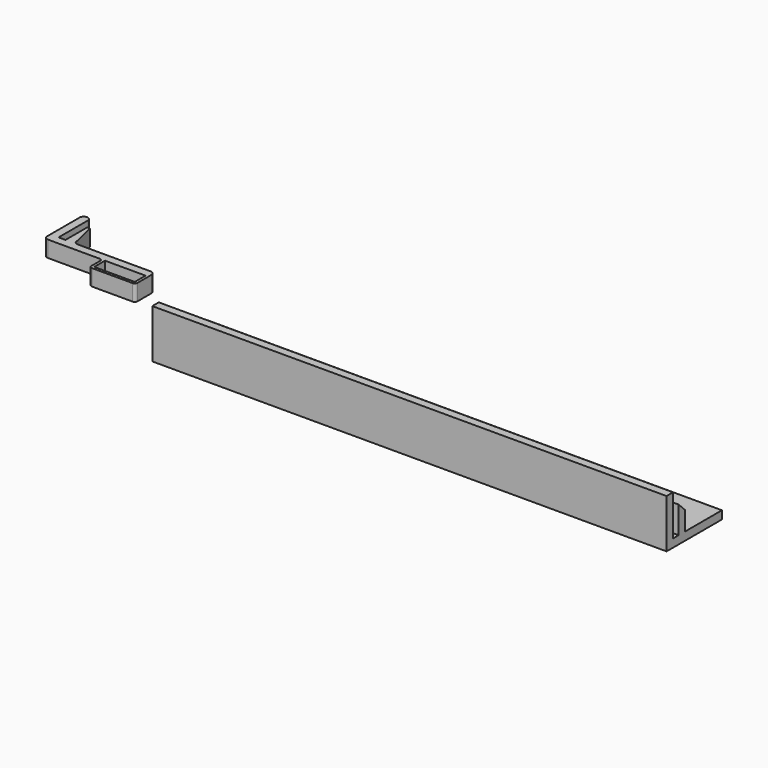
from build123d import *

# Parameters (mm, degrees)
F1_DEPTH = 190
F2_W     = 20
F2_H     = 2
F3_DEPTH = 25
F5_DEPTH = 6
F6_SIZE2 = 8
F6_SIZE  = 2
F7_R     = 1


with BuildPart() as f1:
    # F0 (on Right) → F1 (new body)
    with BuildSketch(Plane.YZ):
        Polygon((4.144212, 10), (1.144212, 13), (1.144212, 3), (-1.405788, 3), (-1.405788, 18), (-4.405788, 18), (-4.405788, 0), (-2.420145, 0), (21.144212, 0), (21.144212, 3), (4.144212, 3), align=None)
    extrude(amount=F1_DEPTH)

    # F2 (on face) → F3 (cut)
    with BuildSketch(Plane(origin=(0, 0, 0), x_dir=(1, 0, 0), z_dir=(0, 0, -1))):
        with Locations((174.6, -5.144212)):
            Rectangle(F2_W, F2_H)
        with Locations((148, -5.144212)):
            Rectangle(F2_W, F2_H)
        with Locations((121.4, -5.144212)):
            Rectangle(F2_W, F2_H)
        with Locations((94.8, -5.144212)):
            Rectangle(F2_W, F2_H)
        with Locations((68.2, -5.144212)):
            Rectangle(F2_W, F2_H)
        with Locations((41.6, -5.144212)):
            Rectangle(F2_W, F2_H)
        with Locations((15, -5.144212)):
            Rectangle(F2_W, F2_H)
    extrude(amount=-F3_DEPTH, mode=Mode.SUBTRACT)


with BuildPart() as f5:
    # F4 (on Top) → F5 (new body)
    with BuildSketch(Plane.XY):
        with BuildLine():
            Line((-56.777601, 40.232927), (-59.777601, 40.232927))
            Line((-59.777601, 40.232927), (-59.777601, 30.232927))
            Line((-59.777601, 30.232927), (-62.327601, 30.232927))
            Line((-62.327601, 30.232927), (-62.327601, 43.732927))
            ThreePointArc((-62.327601, 43.732927), (-62.766941, 44.793587), (-63.827601, 45.232927))
            ThreePointArc((-63.827601, 45.232927), (-64.888261, 44.793587), (-65.327601, 43.732927))
            Line((-65.327601, 43.732927), (-65.327601, 28.732927))
            ThreePointArc((-65.327601, 28.732927), (-64.888261, 27.672267), (-63.827601, 27.232927))
            Line((-63.827601, 27.232927), (-50.341958, 27.232927))
            Line((-50.341958, 27.232927), (-43.777601, 27.232927))
            Line((-43.777601, 27.232927), (-42.777601, 27.232927))
            Line((-42.777601, 27.232927), (-27.777601, 27.232927))
            Line((-27.777601, 27.232927), (-26.777601, 27.232927))
            Line((-26.777601, 27.232927), (-26.777601, 28.732927))
            ThreePointArc((-26.777601, 28.732927), (-27.216941, 29.793587), (-28.277601, 30.232927))
            Line((-28.277601, 30.232927), (-55.277601, 30.232927))
            ThreePointArc((-55.277601, 30.232927), (-56.338261, 30.672267), (-56.777601, 31.732927))
            Line((-56.777601, 31.732927), (-56.777601, 40.232927))
        make_face()
        Polygon((-26.777601, 21.232927), (-26.777601, 27.232927), (-27.777601, 27.232927), (-27.777601, 22.232927), (-42.777601, 22.232927), (-42.777601, 27.232927), (-43.777601, 27.232927), (-43.777601, 21.232927), align=None)
    extrude(amount=F5_DEPTH)

    # F6
    f6_edges = [f5.edges().sort_by_distance(p)[0] for p in [
        (-56.777601, 40.232927, 3),
    ]]
    chamfer(f6_edges, length=F6_SIZE, length2=F6_SIZE2)

    # F7
    f7_edges = [f5.edges().sort_by_distance(p)[0] for p in [
        (-43.777601, 27.232927, 3),
        (-43.777601, 21.232927, 3),
        (-26.777601, 21.232927, 3),
    ]]
    fillet(f7_edges, radius=F7_R)


solid = Compound([f1.part, f5.part])
